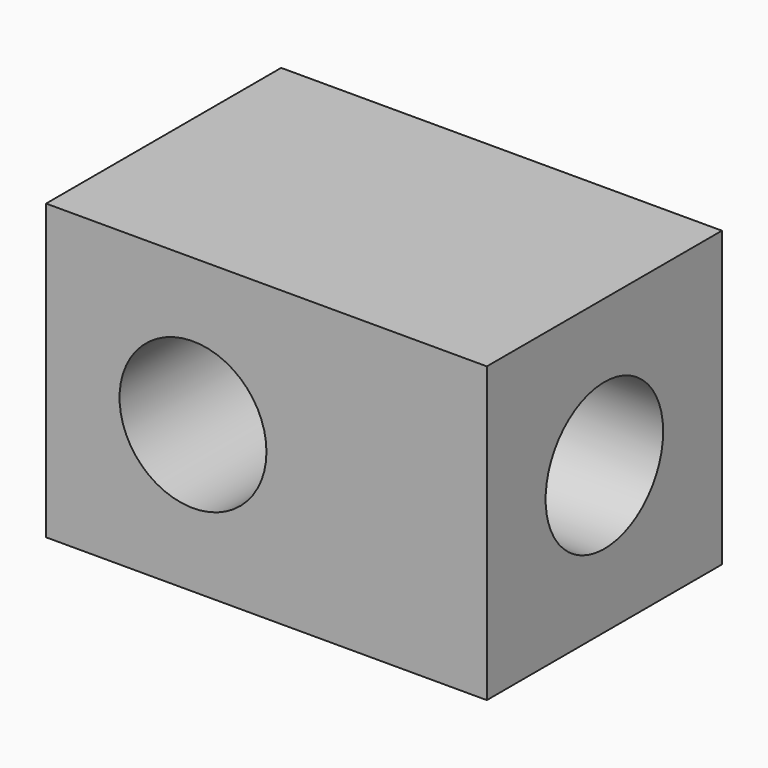
from build123d import *

# Parameters (mm, degrees)
F0_W     = 50.8
F0_H     = 50.8
F0_R     = 12.7
F1_DEPTH = 50.8
F2_W     = 50.8
F2_H     = 50.8
F2_R     = 12.7
F3_DEPTH = 25.4


with BuildPart() as f1:
    # F0 (on Front) → F1 (new body)
    with BuildSketch(Plane.XZ):
        with Locations((25.4, 25.4)):
            Rectangle(F0_W, F0_H)
        with Locations((25.4, 25.4)):
            Circle(F0_R, mode=Mode.SUBTRACT)
    extrude(amount=F1_DEPTH)

    # F2 (on face) → F3 (join)
    with BuildSketch(Plane.YZ.offset(50.8)):
        with Locations((-25.4, 25.4)):
            Rectangle(F2_W, F2_H)
        with Locations((-25.4, 25.4)):
            Circle(F2_R, mode=Mode.SUBTRACT)
    extrude(amount=F3_DEPTH)


solid = f1.part
